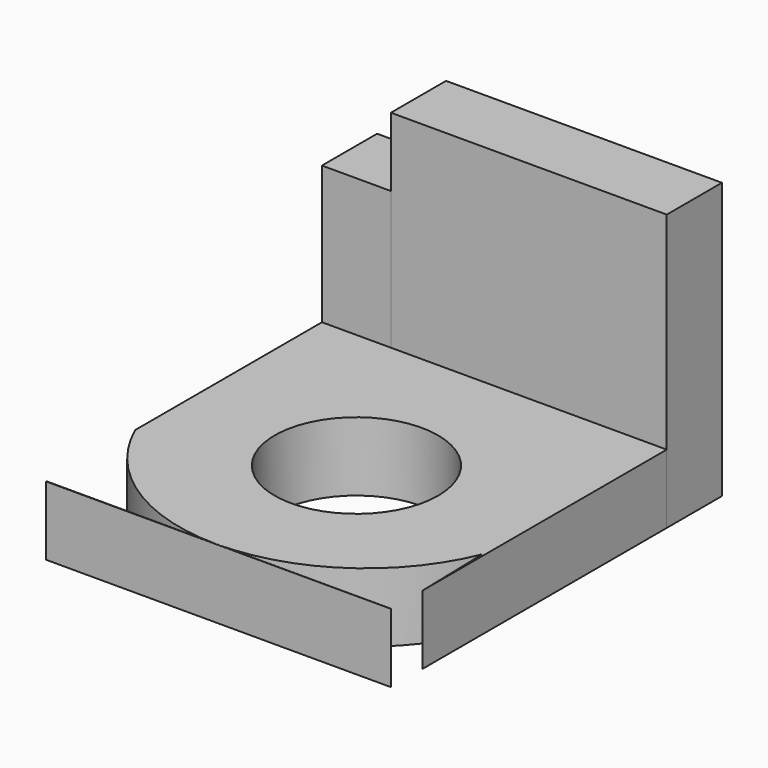
from build123d import *

# Parameters (mm, degrees)
F0_W     = 127
F0_H     = 127
F1_DEPTH = 25.4
F2_R     = 30.096866
F3_DEPTH = 50.8
F5_DEPTH = 50.8
F6_W     = 25.4
F6_H     = 25.4
F7_DEPTH = 76.2
F8_W     = 101.6
F8_H     = 25.4
F9_DEPTH = 101.6


with BuildPart() as f1:
    # F0 (on Top) → F1 (new body)
    with BuildSketch(Plane.XY):
        Rectangle(F0_W, F0_H)
    extrude(amount=F1_DEPTH)

    # F2 (on Top) → F3 (cut)
    with BuildSketch(Plane.XY):
        Circle(F2_R)
    extrude(amount=F3_DEPTH, mode=Mode.SUBTRACT)

    # F4 (on Top) → F5 (cut)
    with BuildSketch(Plane.XY):
        with BuildLine():
            ThreePointArc((62.790878, -20.574031), (37.528447, -51.69982), (-0.818835, -63.382763))
            Line((-0.818835, -63.382763), (63.858583, -63.441748))
            Line((63.858583, -63.441748), (62.790878, -20.574031))
        make_face()
        with BuildLine():
            ThreePointArc((-0.818835, -63.382763), (-38.611796, -51.986363), (-63.859664, -21.642813))
            Line((-63.859664, -21.642813), (-63.859664, -63.325271))
            Line((-63.859664, -63.325271), (-0.818835, -63.382763))
        make_face()
    extrude(amount=F5_DEPTH, mode=Mode.SUBTRACT)


with BuildPart() as f7:
    # F6 (on Top) → F7 (new body)
    with BuildSketch(Plane.XY):
        with Locations((-50.8, 76.2)):
            Rectangle(F6_W, F6_H)
    extrude(amount=F7_DEPTH)


with BuildPart() as f9:
    # F8 (on Top) → F9 (new body)
    with BuildSketch(Plane.XY):
        with Locations((12.7, 76.2)):
            Rectangle(F8_W, F8_H)
    extrude(amount=F9_DEPTH)


solid = Compound([f1.part, f7.part, f9.part])
